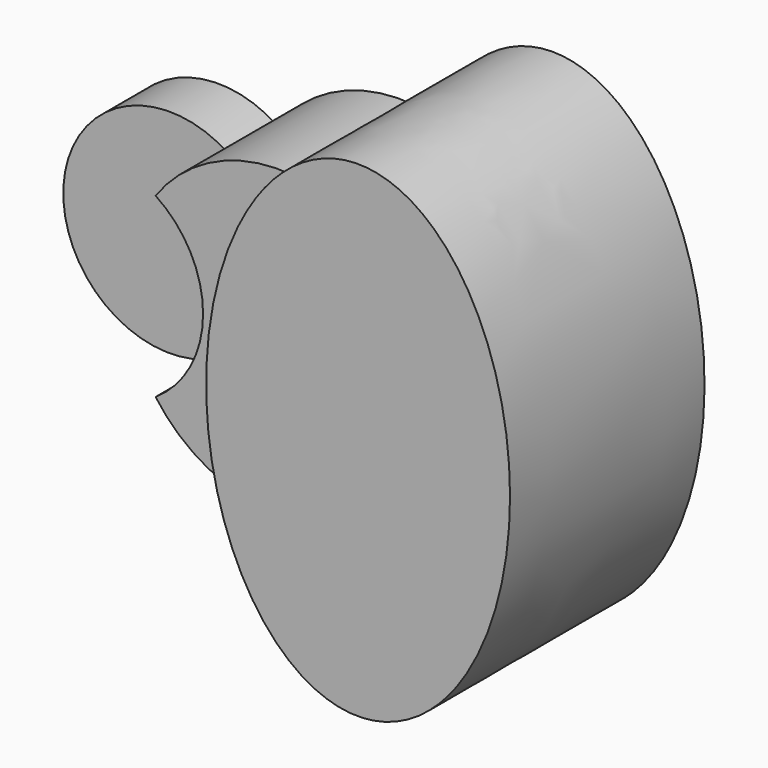
from build123d import *

# Parameters (mm, degrees)
F1_DEPTH = 25.4
F2_DEPTH = 63.5
F3_DEPTH = 101.6
F4_DEPTH = 25.4


with BuildPart() as f1:
    # F0 (on Front) → F1 (new body)
    with BuildSketch(Plane.XZ):
        with BuildLine():
            ThreePointArc((-51.59375, -37.0180356169), (-60.4501990278, -19.4428248333), (-63.5, 0))
            ThreePointArc((-63.5, 0), (-60.4501990278, 19.4428248333), (-51.59375, 37.0180356169))
            ThreePointArc((-51.59375, 37.0180356169), (-120.65, 0), (-51.59375, -37.0180356169))
        make_face()
    extrude(amount=F1_DEPTH)


with BuildPart() as f2:
    # F0 (on Front) → F2 (new body)
    with BuildSketch(Plane.XZ):
        with BuildLine():
            Line((-31.75, 0), (0, 0))
            Line((0, 0), (0, 63.5))
            ThreePointArc((0, 63.5), (-28.9965923716, 56.4928989417), (-51.59375, 37.0180356169))
            ThreePointArc((-51.59375, 37.0180356169), (-37.0237934934, 21.0006510316), (-31.75, 0))
        make_face()
        with BuildLine():
            add(Edge.make_bspline(
                [(0, 0), (0, -34.6669399309), (13.2439655959, -62.1035214404)],
                knots=[4.7123889804, 4.7123889804, 4.7123889804, 5.370034499, 5.370034499, 5.370034499], degree=2, weights=[1, 0.9464231645, 1]))
            Line((0, 0), (-31.75, 0))
            ThreePointArc((-31.75, 0), (-37.0237934934, -21.0006510316), (-51.59375, -37.0180356169))
            ThreePointArc((-51.59375, -37.0180356169), (-22.9128106244, -59.2220660674), (13.2439655959, -62.1035214404))
        make_face()
        with BuildLine():
            Line((0, 63.5), (0, 0))
            add(Edge.make_bspline(
                [(13.2439655959, 62.1035214404), (0, 34.6669399309), (0, 0)],
                knots=[4.0547434617, 4.0547434617, 4.0547434617, 4.7123889804, 4.7123889804, 4.7123889804], degree=2, weights=[1, 0.9464231645, 1]))
            ThreePointArc((13.2439655959, 62.1035214404), (6.6586931352, 63.1499153264), (0, 63.5))
        make_face()
    extrude(amount=F2_DEPTH)

    # F0 (on Front) → F3 (join)
    with BuildSketch(Plane.XZ):
        with BuildLine():
            add(Edge.make_bspline(
                [(63.5, 101.6), (32.3093875408, 101.6), (13.2439655959, 62.1035214404)],
                knots=[3.1415926536, 3.1415926536, 3.1415926536, 4.0547434617, 4.0547434617, 4.0547434617], degree=2, weights=[1, 0.8975675831, 1]))
            ThreePointArc((13.2439655959, 62.1035214404), (49.3621404284, 39.9453262889), (63.5, 0))
            Line((63.5, 0), (63.5, 101.6))
        make_face()
        with BuildLine():
            add(Edge.make_bspline(
                [(13.2439655959, 62.1035214404), (0, 34.6669399309), (0, 0)],
                knots=[4.0547434617, 4.0547434617, 4.0547434617, 4.7123889804, 4.7123889804, 4.7123889804], degree=2, weights=[1, 0.9464231645, 1]))
            add(Edge.make_bspline(
                [(0, 0), (0, -34.6669399309), (13.2439655959, -62.1035214404)],
                knots=[4.7123889804, 4.7123889804, 4.7123889804, 5.370034499, 5.370034499, 5.370034499], degree=2, weights=[1, 0.9464231645, 1]))
            ThreePointArc((13.2439655959, -62.1035214404), (49.3621404284, -39.9453262889), (63.5, 0))
            ThreePointArc((63.5, 0), (49.3621404284, 39.9453262889), (13.2439655959, 62.1035214404))
        make_face()
        with BuildLine():
            ThreePointArc((63.5, 0), (49.3621404284, -39.9453262889), (13.2439655959, -62.1035214404))
            add(Edge.make_bspline(
                [(13.2439655959, -62.1035214404), (75.5537087854, -191.1861844445), (120.4955415237, -44.7930922222), (165.437374262, 101.6), (63.5, 101.6)],
                knots=[5.370034499, 5.370034499, 5.370034499, 7.3974062299, 7.3974062299, 9.4247779608, 9.4247779608, 9.4247779608], degree=2, weights=[1, 0.5287358074, 1, 0.5287358074, 1]))
            Line((63.5, 101.6), (63.5, 0))
        make_face()
    extrude(amount=F3_DEPTH)


with BuildPart() as f4:
    # F0 (on Front) → F4 (new body)
    with BuildSketch(Plane.XZ):
        with BuildLine():
            Line((-63.5, 0), (-31.75, 0))
            ThreePointArc((-31.75, 0), (-37.0237934934, 21.0006510316), (-51.59375, 37.0180356169))
            ThreePointArc((-51.59375, 37.0180356169), (-60.4501990278, 19.4428248333), (-63.5, 0))
        make_face()
        with BuildLine():
            ThreePointArc((-51.59375, -37.0180356169), (-37.0237934934, -21.0006510316), (-31.75, 0))
            Line((-31.75, 0), (-63.5, 0))
            ThreePointArc((-63.5, 0), (-60.4501990278, -19.4428248333), (-51.59375, -37.0180356169))
        make_face()
    extrude(amount=F4_DEPTH)


solid = Compound([f1.part, f2.part, f4.part])
